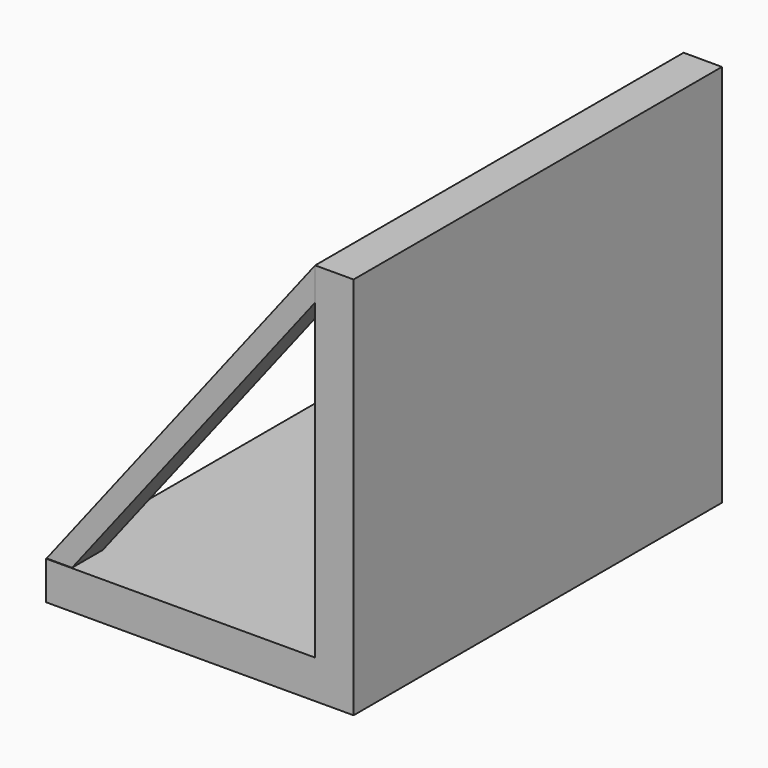
from build123d import *

# Parameters (mm, degrees)
F1_DEPTH  = 127
F2_W      = 88.9
F2_H      = 114.3
F3_DEPTH  = 152.6319465885
F5_DEPTH  = 12.7
F9_DEPTH  = 12.7
F10_DEPTH = 12.7


with BuildPart() as f1:
    # F0 (on Top) → F1 (new body)
    with BuildSketch(Plane.XY):
        Polygon((0, -76.2), (0, 0), (0, 76.2), (-101.6, 76.4309465885), (-101.6, -76.2), align=None)
    extrude(amount=F1_DEPTH)

    # F2 (on face) → F3 (cut, through all)
    with BuildSketch(Plane.XZ.offset(76.2)):
        with Locations((-57.15, 69.85)):
            Rectangle(F2_W, F2_H)
    extrude(amount=-F3_DEPTH, mode=Mode.SUBTRACT)

    # F4 (on face) → F5 (join)
    with BuildSketch(Plane.XZ.offset(76.2)):
        Polygon((-12.7, 127), (-101.6, 12.7), (-93.1919366121, 12.7), (-12.7, 116.189632787), align=None)
    extrude(amount=-F5_DEPTH)

    # F6: F1 across plane


with BuildPart() as f1_1:
    add(f1.part)
    add(f1.part.mirror(Plane.XZ))

    # F8 (on face) → F9 (join)
    with BuildSketch(Plane(origin=(-12.7, 0, 0), x_dir=(0, -1, 0), z_dir=(-1, 0, 0))):
        Polygon((27.0305331796, 108.3241701126), (18.2572510093, 105.0341874361), (21.9403224368, 79.9026338657), (14.9672674015, 84.8556309938), (21.9403224368, 53.9298020303), (15.4059324414, 57.6584488153), (23.1189505014, 23.4508488309), (23.1189505014, 48.2271686196), (28.1271934509, 41.8665371835), (25.9338729084, 73.0116963387), (30.9785138816, 65.1157423854), (30.3082256371, 72.4516701299), (27.5382939124, 102.7670145489), align=None)
        with BuildLine():
            ThreePointArc((30.9785138816, 65.1157423854), (53.7975454705, 88.9853099615), (27.0305331796, 108.3241701126))
            Line((27.0305331796, 108.3241701126), (27.5382939124, 102.7670145489))
            ThreePointArc((27.5382939124, 102.7670145489), (46.803503681, 89.2430712576), (30.3082256371, 72.4516701299))
            Line((30.3082256371, 72.4516701299), (30.9785138816, 65.1157423854))
        make_face()
    extrude(amount=F9_DEPTH)

    # F7 (on face) → F10 (join)
    with BuildSketch(Plane(origin=(-12.7, 0, 0), x_dir=(0, -1, 0), z_dir=(-1, 0, 0))):
        with BuildLine():
            Line((-41.1189049482, 55.9498922817), (-41.1189049482, 60.0139613671))
            ThreePointArc((-41.1189049482, 60.0139613671), (-46.1180179766, 60.8526580466), (-50.9355384856, 62.4293759465))
            Line((-50.9355384856, 62.4293759465), (-48.3765341341, 66.3066580892))
            Line((-48.3765341341, 66.3066580892), (-53.4945428371, 62.8946498036))
            ThreePointArc((-53.4945428371, 62.8946498036), (-47.8245334602, 58.4995284296), (-41.1189049482, 55.9498922817))
        make_face()
        with BuildLine():
            Line((-33.9530482888, 95.3087136149), (-41.1189049482, 95.3087136149))
            Line((-41.1189049482, 95.3087136149), (-41.1189049482, 60.0139613671))
            ThreePointArc((-41.1189049482, 60.0139613671), (-37.5331179531, 59.8773300828), (-33.9530482888, 60.1215383586))
            Line((-33.9530482888, 60.1215383586), (-33.9530482888, 60.6629624963))
            Line((-33.9530482888, 60.6629624963), (-33.9530482888, 95.3087136149))
        make_face()
        with BuildLine():
            ThreePointArc((-33.9530482888, 55.4682547852), (-37.5538538559, 55.4430939924), (-41.1189049482, 55.9498922817))
            Line((-41.1189049482, 55.9498922817), (-41.1189049482, 25.4587136149))
            Line((-41.1189049482, 25.4587136149), (-33.9530482888, 25.4587136149))
            Line((-33.9530482888, 25.4587136149), (-33.9530482888, 55.4682547852))
        make_face()
        with BuildLine():
            ThreePointArc((-33.9530482888, 60.1215383586), (-37.5331179531, 59.8773300828), (-41.1189049482, 60.0139613671))
            Line((-41.1189049482, 60.0139613671), (-41.1189049482, 55.9498922817))
            ThreePointArc((-41.1189049482, 55.9498922817), (-37.5538538559, 55.4430939924), (-33.9530482888, 55.4682547852))
            Line((-33.9530482888, 55.4682547852), (-33.9530482888, 60.1215383586))
        make_face()
        with BuildLine():
            ThreePointArc((-20.7989049482, 64.6006539464), (-27.1433610579, 61.6779571784), (-33.9530482888, 60.1215383586))
            Line((-33.9530482888, 60.1215383586), (-33.9530482888, 55.4682547852))
            ThreePointArc((-33.9530482888, 55.4682547852), (-26.9900318901, 57.0883116374), (-20.7989049482, 60.6629624963))
            Line((-20.7989049482, 60.6629624963), (-20.7989049482, 64.6006539464))
        make_face()
        Polygon((-20.7989049482, 98.4088753533), (-20.7989049482, 64.6006539464), (-20.7989049482, 60.6629624963), (-20.7989049482, 22.2088753533), (-13.1789049482, 22.2088753533), (-13.1789049482, 62.8946498036), (-13.1789049482, 70.8043053746), (-13.1789049482, 98.4088753533), align=None)
        with BuildLine():
            ThreePointArc((-2.1593503188, 70.8043053746), (-7.6691276335, 71.4665793512), (-13.1789049482, 70.8043053746))
            Line((-13.1789049482, 70.8043053746), (-13.1789049482, 62.8946498036))
            ThreePointArc((-13.1789049482, 62.8946498036), (-9.105292791, 65.0897069065), (-4.640808329, 66.3066580892))
            Line((-4.640808329, 66.3066580892), (-2.1593503188, 70.8043053746))
        make_face()
    extrude(amount=F10_DEPTH)


solid = f1_1.part
